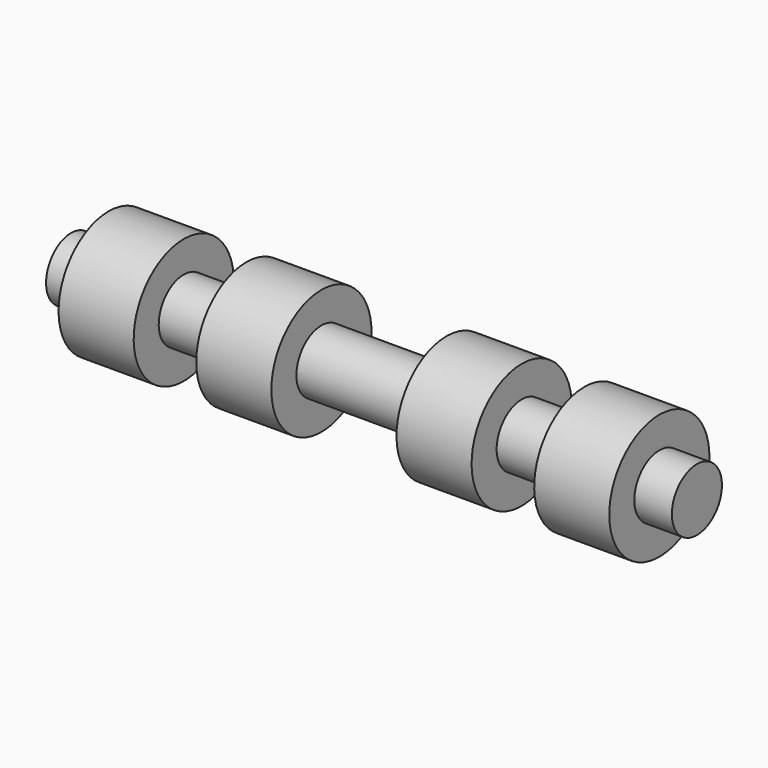
from build123d import *


with BuildPart() as f1:
    # F0 (on Front) → F1 (revolve)
    with BuildSketch(Plane.XZ):
        Polygon((-100, 0), (0, 0), (0, 5), (-6, 5), (-6, 10), (-18, 10), (-18, 5), (-28, 5), (-28, 10), (-40, 10), (-40, 5), (-60, 5), (-60, 10), (-72, 10), (-72, 5), (-82, 5), (-82, 10), (-94, 10), (-94, 5), (-100, 5), align=None)
    revolve(axis=Axis((-44.310086, 0, 0), (-1, 0, 0)))


solid = f1.part
